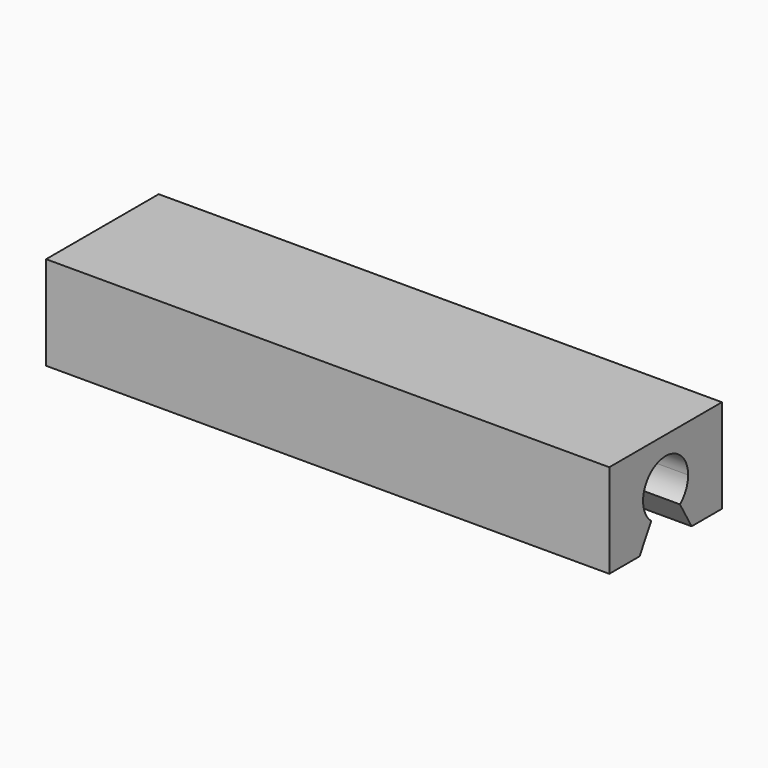
from build123d import *

# Parameters (mm, degrees)
F1_DEPTH = 60


with BuildPart() as f1:
    # F0 (on Right) → F1 (new body, symmetric)
    with BuildSketch(Plane.YZ):
        with BuildLine():
            ThreePointArc((-3.824065, -4.623475), (-2.554957, 5.42883), (6, 0))
            ThreePointArc((6, 0), (5.42883, -2.554957), (3.824065, -4.623475))
            Line((3.824065, -4.623475), (6.928203, -10))
            Line((6.928203, -10), (15, -10))
            Line((15, -10), (15, 10))
            Line((15, 10), (-15, 10))
            Line((-15, 10), (-15, -10))
            Line((-15, -10), (-6.928203, -10))
            Line((-6.928203, -10), (-3.824065, -4.623475))
        make_face()
    extrude(amount=F1_DEPTH, both=True)


solid = f1.part
